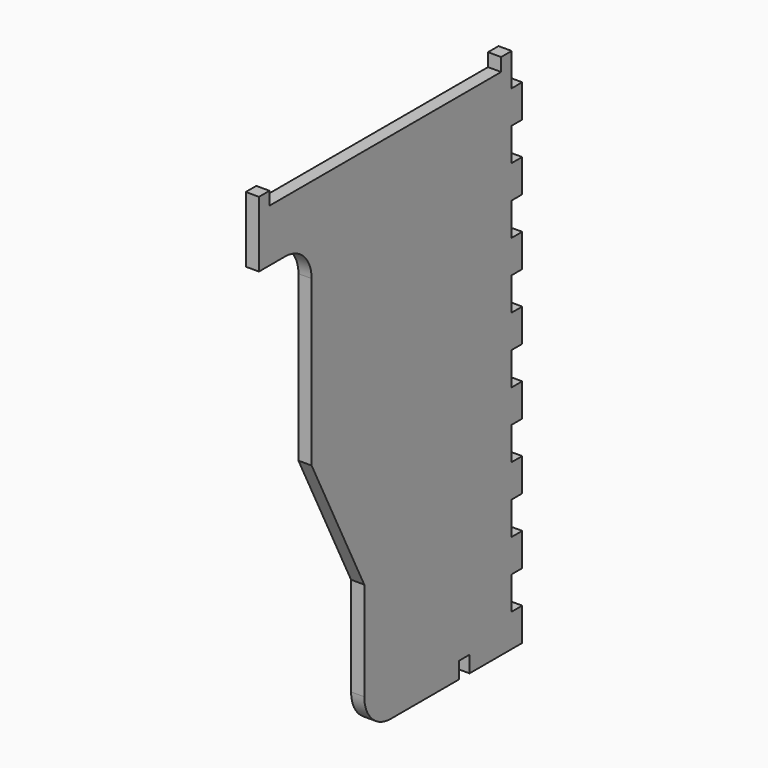
from build123d import *

# Parameters (mm, degrees)
F0_W     = 100
F0_H     = 160
F1_DEPTH = 4
F2_W     = 4
F2_H     = 10
F3_DEPTH = 4
F4_W     = 4
F4_H     = 5
F4_W_2   = 88
F4_H_2   = 4
F5_DEPTH = 4
F7_DEPTH = 4


with BuildPart() as f1:
    # F0 (on Right) → F1 (new body)
    with BuildSketch(Plane.YZ):
        with Locations((50, 80)):
            Rectangle(F0_W, F0_H)
    extrude(amount=F1_DEPTH)

    # F2 (on face) → F3 (cut, through all)
    with BuildSketch(Plane.YZ.offset(4)):
        with Locations((98, 155)):
            Rectangle(F2_W, F2_H)
        with Locations((98, 135)):
            Rectangle(F2_W, F2_H)
        with Locations((98, 115)):
            Rectangle(F2_W, F2_H)
        with Locations((98, 95)):
            Rectangle(F2_W, F2_H)
        with Locations((98, 75)):
            Rectangle(F2_W, F2_H)
        with Locations((98, 55)):
            Rectangle(F2_W, F2_H)
        with Locations((98, 35)):
            Rectangle(F2_W, F2_H)
        with Locations((98, 15)):
            Rectangle(F2_W, F2_H)
    extrude(amount=-F3_DEPTH, mode=Mode.SUBTRACT)

    # F4 (on face) → F5 (cut, through all)
    with BuildSketch(Plane.YZ.offset(4)):
        with Locations((78, 2.5)):
            Rectangle(F4_W, F4_H)
        with Locations((48, 158)):
            Rectangle(F4_W_2, F4_H_2)
    extrude(amount=-F5_DEPTH, mode=Mode.SUBTRACT)

    # F6 (on face) → F7 (cut, through all)
    with BuildSketch(Plane.YZ.offset(4)):
        with BuildLine():
            Line((10, 140), (0, 140))
            Line((0, 140), (0, 0))
            Line((0, 0), (40, 0))
            Line((40, 0), (40, 10))
            Line((40, 10), (40, 40))
            Line((40, 40), (20, 80))
            Line((20, 80), (20, 130))
            ThreePointArc((20, 130), (17.071068, 137.071068), (10, 140))
        make_face()
        with BuildLine():
            Line((40, 10), (40, 0))
            Line((40, 0), (50, 0))
            ThreePointArc((50, 0), (42.928932, 2.928932), (40, 10))
        make_face()
    extrude(amount=-F7_DEPTH, mode=Mode.SUBTRACT)


solid = f1.part
